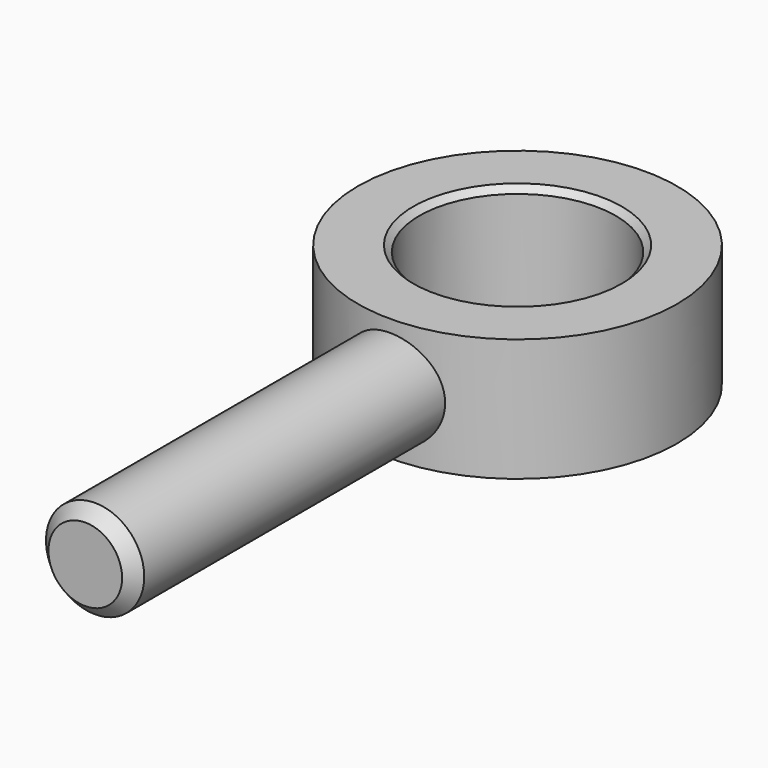
from build123d import *

# Parameters (mm, degrees)
SKETCH_R        = 13
SKETCH_R_2      = 8
PAD_DEPTH       = 10
SKETCH001_R     = 4
PAD001_DEPTH    = 35
CHAMFER_SIZE    = 1
CHAMFER001_SIZE = 0.5


with BuildPart() as part:
    # Sketch → Pad (new body)
    with BuildSketch(Plane.XY):
        Circle(SKETCH_R)
        Circle(SKETCH_R_2, mode=Mode.SUBTRACT)
    extrude(amount=PAD_DEPTH)

    # Sketch001 → Pad001 (join)
    with BuildSketch(Plane.XZ.offset(9)):
        with Locations((0, 5)):
            Circle(SKETCH001_R)
    extrude(amount=PAD001_DEPTH)

    # Chamfer
    chamfer_edges = [part.edges().sort_by_distance(p)[0] for p in [
        (-4, -44, 5),
    ]]
    chamfer(chamfer_edges, length=CHAMFER_SIZE)

    # Chamfer001
    chamfer001_edges = [part.edges().sort_by_distance(p)[0] for p in [
        (-8, 0, 10),
    ]]
    chamfer(chamfer001_edges, length=CHAMFER001_SIZE)


solid = part.part
